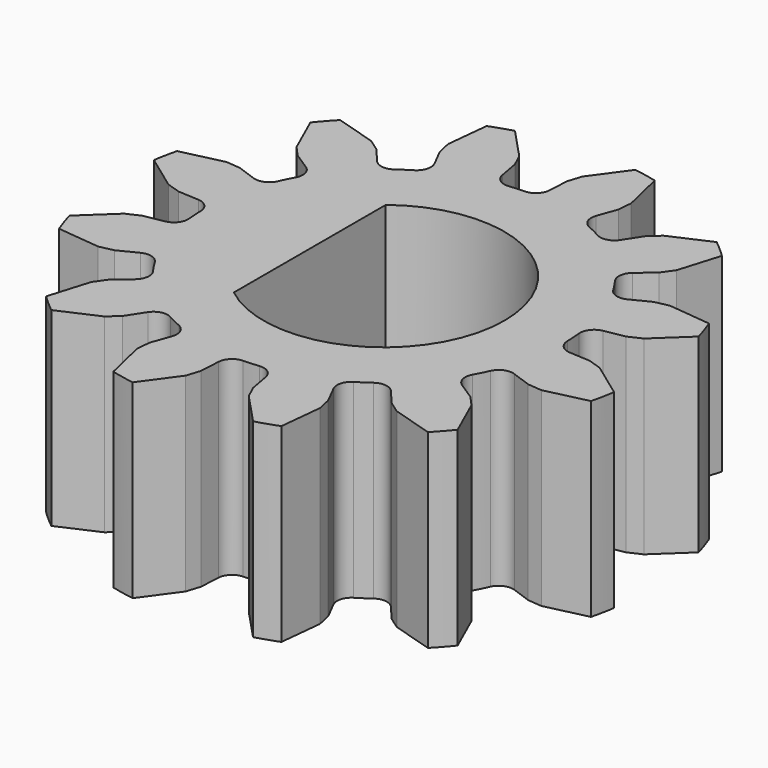
from build123d import *

# Parameters (mm, degrees)
PAD015_DEPTH = 12
PAD014_DEPTH = 5


with BuildPart() as body013:
    # Sketch146 → Pad015 (new body)
    with BuildSketch(Plane.XY):
        with BuildLine():
            Line((41.956765, 0.26313), (41.959666, 5.256243))
            ThreePointArc((41.956765, 0.26313), (47.080742, 2.75671), (41.959666, 5.256243))
        make_face()
    extrude(amount=PAD015_DEPTH)


with BuildPart() as body013_1:
    # Body013 placement: moved
    add(body013.part.moved(Location((0, 0, 4))))


with BuildPart() as old_pinion:
    # Sketch145 → Pad014 (new body)
    with BuildSketch(Plane.XY):
        with BuildLine():
            Line((48.939875, 3.670275), (49.473913, 3.767638))
            Line((49.473913, 3.767638), (49.815259, 3.926647))
            Line((49.815259, 3.926647), (50.638101, 4.698494))
            ThreePointArc((50.638101, 4.698494), (50.5458, 4.994259), (50.440501, 5.285649))
            Line((50.440501, 5.285649), (49.318425, 5.40296))
            Line((49.318425, 5.40296), (48.950396, 5.323237))
            Line((48.950396, 5.323237), (48.466153, 5.077911))
            ThreePointArc((47.975725, 5.217399), (48.193585, 5.05148), (48.466153, 5.077911))
            ThreePointArc((47.975725, 5.217399), (47.866498, 5.389716), (47.749972, 5.557185))
            ThreePointArc((47.811432, 6.063346), (47.681442, 5.822318), (47.749972, 5.557185))
            Line((47.811432, 6.063346), (48.225241, 6.414684))
            Line((48.225241, 6.414684), (48.441351, 6.723062))
            Line((48.441351, 6.723062), (48.768029, 7.802923))
            ThreePointArc((48.768029, 7.802923), (48.540212, 8.012912), (48.303325, 8.212614))
            Line((48.303325, 8.212614), (47.272923, 7.75317))
            Line((47.272923, 7.75317), (46.994062, 7.500114))
            Line((46.994062, 7.500114), (46.697359, 7.045533))
            ThreePointArc((46.202892, 6.92112), (46.474523, 6.886359), (46.697359, 7.045533))
            ThreePointArc((46.202892, 6.92112), (46.022139, 7.015737), (45.837491, 7.102506))
            ThreePointArc((45.637635, 7.571584), (45.645575, 7.297853), (45.837491, 7.102506))
            Line((45.637635, 7.571584), (45.820336, 8.082756))
            Line((45.820336, 8.082756), (45.853303, 8.457875))
            Line((45.853303, 8.457875), (45.596285, 9.556401))
            ThreePointArc((45.596285, 9.556401), (45.293995, 9.624348), (44.988994, 9.678852))
            Line((44.988994, 9.678852), (44.326362, 8.765761))
            Line((44.326362, 8.765761), (44.211389, 8.407177))
            Line((44.211389, 8.407177), (44.181727, 7.865147))
            ThreePointArc((43.815712, 7.510168), (44.068332, 7.615881), (44.181727, 7.865147))
            ThreePointArc((43.815712, 7.510168), (43.611867, 7.501733), (43.408573, 7.484553))
            ThreePointArc((43.000954, 7.790859), (43.144695, 7.55777), (43.408573, 7.484553))
            Line((43.000954, 7.790859), (42.903591, 8.324897))
            Line((42.903591, 8.324897), (42.744582, 8.666243))
            Line((42.744582, 8.666243), (41.972735, 9.489085))
            ThreePointArc((41.972735, 9.489085), (41.67697, 9.396784), (41.38558, 9.291486))
            Line((41.38558, 9.291486), (41.268269, 8.169409))
            Line((41.268269, 8.169409), (41.347991, 7.80138))
            Line((41.347991, 7.80138), (41.593318, 7.317138))
            ThreePointArc((41.45383, 6.82671), (41.619749, 7.044569), (41.593318, 7.317138))
            ThreePointArc((41.45383, 6.82671), (41.281512, 6.717482), (41.114044, 6.600956))
            ThreePointArc((40.607883, 6.662416), (40.848911, 6.532426), (41.114044, 6.600956))
            Line((40.607883, 6.662416), (40.256545, 7.076225))
            Line((40.256545, 7.076225), (39.948167, 7.292335))
            Line((39.948167, 7.292335), (38.868306, 7.619013))
            ThreePointArc((38.868306, 7.619013), (38.658317, 7.391196), (38.458615, 7.154309))
            Line((38.458615, 7.154309), (38.918059, 6.123907))
            Line((38.918059, 6.123907), (39.171115, 5.845046))
            Line((39.171115, 5.845046), (39.625696, 5.548343))
            ThreePointArc((39.750109, 5.053876), (39.784869, 5.325508), (39.625696, 5.548343))
            ThreePointArc((39.750109, 5.053876), (39.655491, 4.873124), (39.568723, 4.688475))
            ThreePointArc((39.099644, 4.48862), (39.373376, 4.496559), (39.568723, 4.688475))
            Line((39.099644, 4.48862), (38.588472, 4.67132))
            Line((38.588472, 4.67132), (38.213354, 4.704288))
            Line((38.213354, 4.704288), (37.114828, 4.447269))
            ThreePointArc((37.114828, 4.447269), (37.046881, 4.144979), (36.992377, 3.839978))
            Line((36.992377, 3.839978), (37.905468, 3.177346))
            Line((37.905468, 3.177346), (38.264052, 3.062373))
            Line((38.264052, 3.062373), (38.806082, 3.032711))
            ThreePointArc((39.161061, 2.666696), (39.055348, 2.919317), (38.806082, 3.032711))
            ThreePointArc((39.161061, 2.666696), (39.169495, 2.462852), (39.186676, 2.259557))
            ThreePointArc((38.88037, 1.851938), (39.113458, 1.99568), (39.186676, 2.259557))
            Line((38.88037, 1.851938), (38.346331, 1.754575))
            Line((38.346331, 1.754575), (38.004985, 1.595567))
            Line((38.004985, 1.595567), (37.182144, 0.823719))
            ThreePointArc((37.182144, 0.823719), (37.274445, 0.527954), (37.379743, 0.236564))
            Line((37.379743, 0.236564), (38.50182, 0.119253))
            Line((38.50182, 0.119253), (38.869848, 0.198976))
            Line((38.869848, 0.198976), (39.354091, 0.444302))
            ThreePointArc((39.844519, 0.304814), (39.626659, 0.470733), (39.354091, 0.444302))
            ThreePointArc((39.844519, 0.304814), (39.953746, 0.132497), (40.070272, -0.034972))
            ThreePointArc((40.008813, -0.541133), (40.138803, -0.300105), (40.070272, -0.034972))
            Line((40.008813, -0.541133), (39.595004, -0.892471))
            Line((39.595004, -0.892471), (39.378894, -1.200849))
            Line((39.378894, -1.200849), (39.052216, -2.28071))
            ThreePointArc((39.052216, -2.28071), (39.280033, -2.490699), (39.516919, -2.690401))
            Line((39.516919, -2.690401), (40.547321, -2.230957))
            Line((40.547321, -2.230957), (40.826183, -1.977901))
            Line((40.826183, -1.977901), (41.122886, -1.52332))
            ThreePointArc((41.617353, -1.398907), (41.345721, -1.364146), (41.122886, -1.52332))
            ThreePointArc((41.617353, -1.398907), (41.798105, -1.493524), (41.982754, -1.580293))
            ThreePointArc((42.182609, -2.049371), (42.17467, -1.77564), (41.982754, -1.580293))
            Line((42.182609, -2.049371), (41.999908, -2.560543))
            Line((41.999908, -2.560543), (41.966941, -2.935662))
            Line((41.966941, -2.935662), (42.22396, -4.034188))
            ThreePointArc((42.22396, -4.034188), (42.52625, -4.102135), (42.831251, -4.156639))
            Line((42.831251, -4.156639), (43.493883, -3.243547))
            Line((43.493883, -3.243547), (43.608856, -2.884964))
            Line((43.608856, -2.884964), (43.638518, -2.342934))
            ThreePointArc((44.004532, -1.987955), (43.751912, -2.093668), (43.638518, -2.342934))
            ThreePointArc((44.004532, -1.987955), (44.208377, -1.97952), (44.411672, -1.96234))
            ThreePointArc((44.819291, -2.268646), (44.675549, -2.035557), (44.411672, -1.96234))
            Line((44.819291, -2.268646), (44.916653, -2.802684))
            Line((44.916653, -2.802684), (45.075662, -3.14403))
            Line((45.075662, -3.14403), (45.84751, -3.966872))
            ThreePointArc((45.84751, -3.966872), (46.143275, -3.874571), (46.434665, -3.769273))
            Line((46.434665, -3.769273), (46.551975, -2.647196))
            Line((46.551975, -2.647196), (46.472253, -2.279167))
            Line((46.472253, -2.279167), (46.226926, -1.794925))
            ThreePointArc((46.366415, -1.304496), (46.200495, -1.522356), (46.226926, -1.794925))
            ThreePointArc((46.366415, -1.304496), (46.538732, -1.195269), (46.7062, -1.078743))
            ThreePointArc((47.212362, -1.140203), (46.971333, -1.010213), (46.7062, -1.078743))
            Line((47.212362, -1.140203), (47.563699, -1.554012))
            Line((47.563699, -1.554012), (47.872078, -1.770122))
            Line((47.872078, -1.770122), (48.951939, -2.0968))
            ThreePointArc((48.951939, -2.0968), (49.161928, -1.868983), (49.36163, -1.632096))
            Line((49.36163, -1.632096), (48.902185, -0.601694))
            Line((48.902185, -0.601694), (48.649129, -0.322833))
            Line((48.649129, -0.322833), (48.194549, -0.02613))
            ThreePointArc((48.070135, 0.468337), (48.035375, 0.196706), (48.194549, -0.02613))
            ThreePointArc((48.070135, 0.468337), (48.164753, 0.649089), (48.251522, 0.833738))
            ThreePointArc((48.7206, 1.033593), (48.446869, 1.025654), (48.251522, 0.833738))
            Line((48.7206, 1.033593), (49.231772, 0.850893))
            Line((49.231772, 0.850893), (49.606891, 0.817925))
            Line((49.606891, 0.817925), (50.705417, 1.074944))
            ThreePointArc((50.705417, 1.074944), (50.773364, 1.377234), (50.827868, 1.682235))
            Line((50.827868, 1.682235), (49.914776, 2.344867))
            Line((49.914776, 2.344867), (49.556193, 2.45984))
            Line((49.556193, 2.45984), (49.014163, 2.489502))
            ThreePointArc((48.659184, 2.855517), (48.764896, 2.602897), (49.014163, 2.489502))
            ThreePointArc((48.659184, 2.855517), (48.650749, 3.059361), (48.633569, 3.262656))
            ThreePointArc((48.939875, 3.670275), (48.706786, 3.526534), (48.633569, 3.262656))
        make_face()
    extrude(amount=PAD014_DEPTH)


with BuildPart() as old_pinion_1:
    # Body012 placement: moved
    add(old_pinion.part.moved(Location((0, 0, 4))))

    # Cut001: cut Body013
    add(body013_1.part, mode=Mode.SUBTRACT)


with BuildPart() as old_pinion_2:
    # Cut001 placement: moved
    add(old_pinion_1.part.moved(Location((0, 0, 25.5))))


solid = old_pinion_2.part
